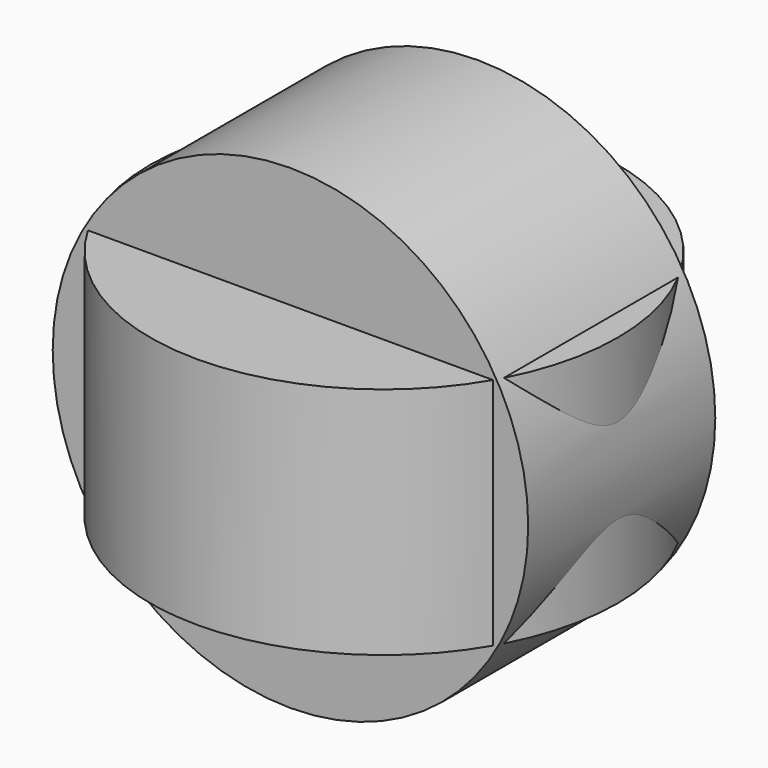
from build123d import *

# Parameters (mm, degrees)
F1_R     = 50
F1_R_2   = 40
F3_DEPTH = 25
F2_R     = 50.8307141885
F2_R_2   = 38.5941106118
F2_R_3   = 3.4704975252
F4_DEPTH = 25


with BuildPart() as f3:
    # F1 (on face) → F3 (new body, symmetric)
    with BuildSketch(Plane.XY):
        Circle(F1_R)
        Circle(F1_R_2, mode=Mode.SUBTRACT)
        Circle(F1_R_2)
    extrude(amount=F3_DEPTH, both=True)

    # F2 (on Front) → F4 (join, symmetric)
    with BuildSketch(Plane.XZ):
        Circle(F2_R)
        Circle(F2_R_2, mode=Mode.SUBTRACT)
        Circle(F2_R_2)
        Circle(F2_R_3, mode=Mode.SUBTRACT)
    extrude(amount=F4_DEPTH, both=True)


solid = f3.part
